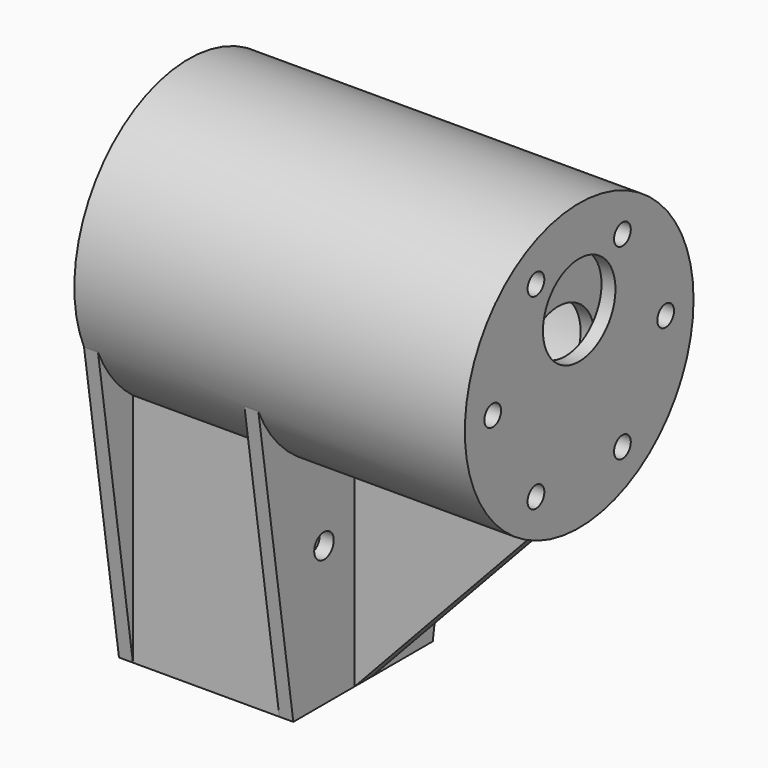
from build123d import *

# Parameters (mm, degrees)
SKETCH009_R            = 20
PAD005_DEPTH           = 7
SKETCH010_R            = 18.15
POCKET004_DEPTH        = 5
SKETCH011_R            = 6.5
POCKET005_DEPTH        = 2.001
SKETCH012_W            = 2
SKETCH012_H            = 6
POCKET006_DEPTH        = 7.001
SKETCH018_R            = 20.5
PAD006_DEPTH           = 10
PAD006_DEPTH_BACK      = 46
SKETCH019_R            = 6.5
SKETCH019_R_2          = 1.5
POCKET007_DEPTH        = 2
SKETCH013_W            = 25
SKETCH013_H            = 25
PAD009_DEPTH           = 50
PAD008_DEPTH           = 2
LINEARPATTERN001_COUNT = 2
LINEARPATTERN001_PITCH = 23
SKETCH017_R            = 18.75
POCKET008_DEPTH        = 54
SKETCH020_R            = 1.75
POCKET010_DEPTH        = 56.001
PAD010_DEPTH           = 1.5
SKETCH022_W            = 21
SKETCH022_H            = 21
POCKET011_DEPTH        = 29


with BuildPart() as back:
    # Sketch009 → Pad005 (new body)
    with BuildSketch(Plane.YZ):
        Circle(SKETCH009_R)
    extrude(amount=PAD005_DEPTH)

    # Sketch010 (on Face2 of Pad005) → Pocket004 (cut)
    with BuildSketch(Plane(origin=(0, 0, 0), x_dir=(0, 1, 0), z_dir=(-1, 0, 0))):
        Circle(SKETCH010_R)
    extrude(amount=-POCKET004_DEPTH, mode=Mode.SUBTRACT)

    # Sketch011 (on Face5 of Pocket004) → Pocket005 (cut, through all)
    with BuildSketch(Plane(origin=(5, 0, 0), x_dir=(0, 1, 0), z_dir=(-1, 0, 0))):
        Circle(SKETCH011_R)
    extrude(amount=-POCKET005_DEPTH, mode=Mode.SUBTRACT)

    # Sketch012 (on Face3 of Pocket005) → Pocket006 (cut, through all)
    with BuildSketch(Plane.YZ.offset(7)):
        with Locations((-14.5, 0)):
            Rectangle(SKETCH012_W, SKETCH012_H)
        with Locations((14.5, 0)):
            Rectangle(SKETCH012_W, SKETCH012_H)
    extrude(amount=-POCKET006_DEPTH, mode=Mode.SUBTRACT)


with BuildPart() as body:
    # Sketch018 → Pad006 (new body, two sides)
    with BuildSketch(Plane.YZ) as pad006_sk:
        Circle(SKETCH018_R)
    extrude(amount=PAD006_DEPTH)
    extrude(pad006_sk.sketch, amount=-PAD006_DEPTH_BACK)

    # Sketch019 → Pocket007 (cut)
    with BuildSketch(Plane.YZ.offset(10)):
        with Locations((0, 7)):
            Circle(SKETCH019_R)
        with Locations((7.75, -13.423394)):
            Circle(SKETCH019_R_2)
        with Locations((15.5, 0)):
            Circle(SKETCH019_R_2)
        with Locations((-15.5, 0)):
            Circle(SKETCH019_R_2)
        with Locations((-7.75, -13.423394)):
            Circle(SKETCH019_R_2)
        with Locations((7.75, 13.423394)):
            Circle(SKETCH019_R_2)
        with Locations((-7.75, 13.423394)):
            Circle(SKETCH019_R_2)
    extrude(amount=-POCKET007_DEPTH, mode=Mode.SUBTRACT)

    # Sketch013 → Pad009 (join)
    with BuildSketch(Plane.XY):
        with Locations((-33.5, 0)):
            Rectangle(SKETCH013_W, SKETCH013_H)
    extrude(amount=-PAD009_DEPTH)

    # Sketch016 → Pad008 (join)
    with BuildSketch(Plane(origin=(-46, 0, 0), x_dir=(0, 1, 0), z_dir=(-1, 0, 0))):
        Polygon((20, 0), (-20, 0), (-12.5, 50), (12.5, 50), align=None)
    pad008 = extrude(amount=-PAD008_DEPTH)

    # LinearPattern001: Pad008 ×2
    with Locations(*[(i * LINEARPATTERN001_PITCH, 0, 0) for i in range(1, LINEARPATTERN001_COUNT)]):
        add(pad008)

    # Sketch017 (on Face2 of Pad006) → Pocket008 (cut)
    with BuildSketch(Plane(origin=(-46, 0, 0), x_dir=(0, 1, 0), z_dir=(-1, 0, 0))):
        Circle(SKETCH017_R)
    extrude(amount=-POCKET008_DEPTH, mode=Mode.SUBTRACT)

    # Sketch020 → Pocket010 (cut, through all)
    with BuildSketch(Plane(origin=(-46, 0, 0), x_dir=(0, 1, 0), z_dir=(-1, 0, 0))):
        with Locations((-7, 30)):
            Circle(SKETCH020_R)
        with Locations((7, 30)):
            Circle(SKETCH020_R)
    extrude(amount=-POCKET010_DEPTH, mode=Mode.SUBTRACT)

    # Sketch021 → Pad010 (join, symmetric)
    with BuildSketch(Plane.XZ):
        Polygon((7, -20), (-21, -20), (-21, -50), align=None)
    extrude(amount=PAD010_DEPTH, both=True)

    # Sketch022 (on Face6 of Pad010) → Pocket011 (cut)
    with BuildSketch(Plane.YX.offset(50)):
        with Locations((0, -33.5)):
            Rectangle(SKETCH022_W, SKETCH022_H)
    extrude(amount=-POCKET011_DEPTH, mode=Mode.SUBTRACT)


solid = Compound([back.part, body.part])
